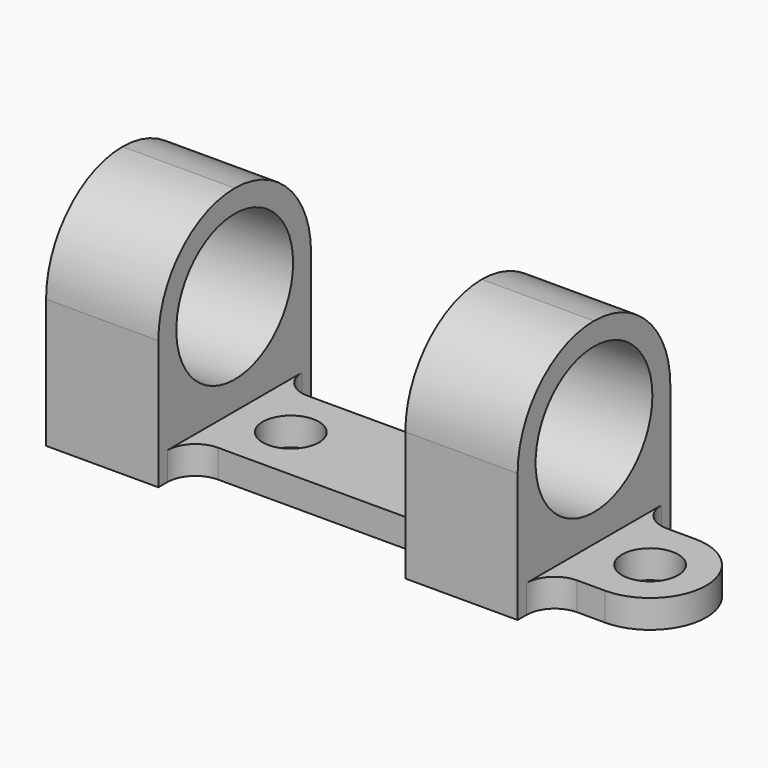
from build123d import *

# Parameters (mm, degrees)
F0_R     = 1.27
F1_DEPTH = 1.27
F2_W     = 5.08
F2_H     = 11.43
F3_DEPTH = 8.89
F4_R     = 3.302
F5_DEPTH = 21.336
F6_R     = 1.27


with BuildPart() as f1:
    # F0 (on Top) → F1 (new body)
    with BuildSketch(Plane.XY):
        with BuildLine():
            Line((-10.668, 5.715), (-15.748, 5.715))
            Line((-15.748, 5.715), (-15.748, -5.715))
            Line((-15.748, -5.715), (-10.668, -5.715))
            Line((-10.668, -5.715), (-10.668, -2.54))
            Line((-10.668, -2.54), (0.508, -2.54))
            Line((0.508, -2.54), (0.508, -5.715))
            Line((0.508, -5.715), (5.588, -5.715))
            Line((5.588, -5.715), (5.588, -2.54))
            Line((5.588, -2.54), (8.128, -2.54))
            ThreePointArc((8.128, -2.54), (10.668, 0), (8.128, 2.54))
            Line((8.128, 2.54), (5.588, 2.54))
            Line((5.588, 2.54), (5.588, 5.715))
            Line((5.588, 5.715), (0.508, 5.715))
            Line((0.508, 5.715), (0.508, 2.54))
            Line((0.508, 2.54), (-10.668, 2.54))
            Line((-10.668, 2.54), (-10.668, 5.715))
        make_face()
        with Locations((-8.128, 0)):
            Circle(F0_R, mode=Mode.SUBTRACT)
        with Locations((8.128, 0)):
            Circle(F0_R, mode=Mode.SUBTRACT)
    extrude(amount=F1_DEPTH)

    # F2 (on face) → F3 (join)
    with BuildSketch(Plane.XY.offset(1.27)):
        with Locations((-13.208, 0)):
            Rectangle(F2_W, F2_H)
        with Locations((3.048, 0)):
            Rectangle(F2_W, F2_H)
    extrude(amount=F3_DEPTH)

    # F4 (on face) → F5 (cut, through all)
    with BuildSketch(Plane.YZ.offset(5.588)):
        with Locations((0, 5.842)):
            Circle(F4_R)
        with BuildLine():
            Line((5.715, 10.16), (0, 10.16))
            ThreePointArc((0, 10.16), (3.053287, 8.895287), (4.318, 5.842))
            Line((4.318, 5.842), (4.318, 0))
            Line((4.318, 0), (5.715, 0))
            Line((5.715, 0), (5.715, 10.16))
        make_face()
        with BuildLine():
            Line((-5.715, 0), (-4.318, 0))
            Line((-4.318, 0), (-4.318, 5.842))
            ThreePointArc((-4.318, 5.842), (-3.053287, 8.895287), (0, 10.16))
            Line((0, 10.16), (-5.715, 10.16))
            Line((-5.715, 10.16), (-5.715, 0))
        make_face()
    extrude(amount=-F5_DEPTH, mode=Mode.SUBTRACT)

    # F6
    f6_edges = [f1.edges().sort_by_distance(p)[0] for p in [
        (-10.668, -2.54, 0.635),
        (5.588, -2.54, 0.635),
        (0.508, -2.54, 0.635),
        (0.508, 2.54, 0.635),
        (5.588, 2.54, 0.635),
        (-10.668, 2.54, 0.635),
    ]]
    fillet(f6_edges, radius=F6_R)


solid = f1.part
